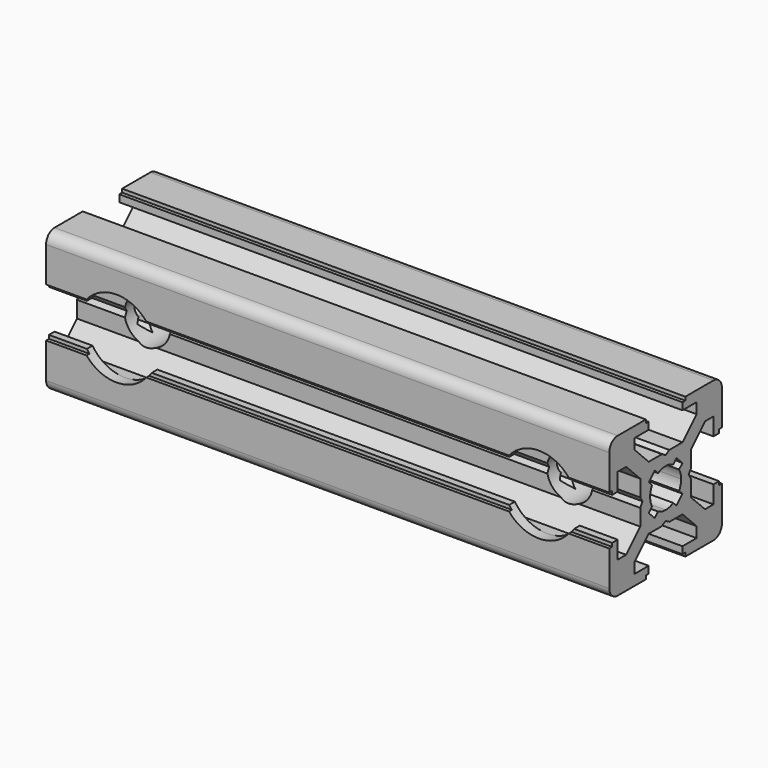
from build123d import *

# Parameters (mm, degrees)
PAD_DEPTH       = 80
SKETCH001_R     = 3.25
POCKET_DEPTH    = 21
SKETCH002_R     = 5.5
POCKET001_DEPTH = 2


with BuildPart() as part:
    # Sketch → Pad (new body)
    with BuildSketch(Plane.YZ):
        with BuildLine():
            Line((0, 4.1), (0.65, 4.5))
            Line((0.65, 4.5), (3, 4.5))
            Line((3, 4.5), (5.5, 7))
            Line((5.5, 7), (5.5, 8.5))
            Line((5.5, 8.5), (3, 8.5))
            Line((3, 8.5), (3, 9.5))
            Line((3, 9.5), (3.5, 9.5))
            Line((3.5, 9.5), (3.5, 10))
            Line((3.5, 10), (8.5, 10))
            ThreePointArc((10, 8.5), (9.56066, 9.56066), (8.5, 10))
            Line((10, 8.5), (10, 3.5))
            Line((10, 3.5), (9.5, 3.5))
            Line((9.5, 3.5), (9.5, 3))
            Line((9.5, 3), (8.5, 3))
            Line((8.5, 3), (8.5, 5.5))
            Line((8.5, 5.5), (7, 5.5))
            Line((7, 5.5), (4.5, 3))
            Line((4.5, 3), (4.5, 0.65))
            Line((4.5, 0.65), (4.1, 0))
            Line((4.5, -0.65), (4.1, 0))
            Line((4.5, -3), (4.5, -0.65))
            Line((7, -5.5), (4.5, -3))
            Line((8.5, -5.5), (7, -5.5))
            Line((8.5, -3), (8.5, -5.5))
            Line((9.5, -3), (8.5, -3))
            Line((9.5, -3.5), (9.5, -3))
            Line((10, -3.5), (9.5, -3.5))
            Line((10, -8.5), (10, -3.5))
            ThreePointArc((8.5, -10), (9.56066, -9.56066), (10, -8.5))
            Line((3.5, -10), (8.5, -10))
            Line((3.5, -9.5), (3.5, -10))
            Line((3, -9.5), (3.5, -9.5))
            Line((3, -8.5), (3, -9.5))
            Line((5.5, -8.5), (3, -8.5))
            Line((5.5, -7), (5.5, -8.5))
            Line((3, -4.5), (5.5, -7))
            Line((0.65, -4.5), (3, -4.5))
            Line((0, -4.1), (0.65, -4.5))
            Line((0, -4.1), (-0.65, -4.5))
            Line((-0.65, -4.5), (-3, -4.5))
            Line((-3, -4.5), (-5.5, -7))
            Line((-5.5, -7), (-5.5, -8.5))
            Line((-5.5, -8.5), (-3, -8.5))
            Line((-3, -8.5), (-3, -9.5))
            Line((-3, -9.5), (-3.5, -9.5))
            Line((-3.5, -9.5), (-3.5, -10))
            Line((-3.5, -10), (-8.5, -10))
            ThreePointArc((-10, -8.5), (-9.56066, -9.56066), (-8.5, -10))
            Line((-10, -8.5), (-10, -3.5))
            Line((-10, -3.5), (-9.5, -3.5))
            Line((-9.5, -3.5), (-9.5, -3))
            Line((-9.5, -3), (-8.5, -3))
            Line((-8.5, -3), (-8.5, -5.5))
            Line((-8.5, -5.5), (-7, -5.5))
            Line((-7, -5.5), (-4.5, -3))
            Line((-4.5, -3), (-4.5, -0.65))
            Line((-4.5, -0.65), (-4.1, 0))
            Line((-4.5, 0.65), (-4.1, 0))
            Line((-4.5, 3), (-4.5, 0.65))
            Line((-7, 5.5), (-4.5, 3))
            Line((-8.5, 5.5), (-7, 5.5))
            Line((-8.5, 3), (-8.5, 5.5))
            Line((-9.5, 3), (-8.5, 3))
            Line((-9.5, 3.5), (-9.5, 3))
            Line((-10, 3.5), (-9.5, 3.5))
            Line((-10, 8.5), (-10, 3.5))
            ThreePointArc((-8.5, 10), (-9.56066, 9.56066), (-10, 8.5))
            Line((-3.5, 10), (-8.5, 10))
            Line((-3.5, 9.5), (-3.5, 10))
            Line((-3, 9.5), (-3.5, 9.5))
            Line((-3, 8.5), (-3, 9.5))
            Line((-5.5, 8.5), (-3, 8.5))
            Line((-5.5, 7), (-5.5, 8.5))
            Line((-3, 4.5), (-5.5, 7))
            Line((-0.65, 4.5), (-3, 4.5))
            Line((0, 4.1), (-0.65, 4.5))
        make_face()
        with BuildLine():
            Line((1.340499, 2.401159), (1.923239, 2.983899))
            Line((1.923239, 2.983899), (2.983899, 1.923239))
            Line((2.983899, 1.923239), (2.401159, 1.340499))
            ThreePointArc((2.75, 0), (2.661361, 0.692573), (2.401159, 1.340499))
            ThreePointArc((2.401164, -1.34049), (2.661362, -0.692568), (2.75, 0))
            Line((2.983904, -1.92323), (2.401164, -1.34049))
            Line((1.923247, -2.983894), (2.983904, -1.92323))
            Line((1.340507, -2.401154), (1.923247, -2.983894))
            ThreePointArc((0, -2.75), (0.692577, -2.66136), (1.340507, -2.401154))
            ThreePointArc((-1.340507, -2.401154), (-0.692577, -2.66136), (0, -2.75))
            Line((-1.340507, -2.401154), (-1.923247, -2.983894))
            Line((-1.923247, -2.983894), (-2.983904, -1.92323))
            Line((-2.983904, -1.92323), (-2.401164, -1.34049))
            ThreePointArc((-2.75, 0), (-2.661362, -0.692568), (-2.401164, -1.34049))
            ThreePointArc((-2.401159, 1.340499), (-2.661361, 0.692572), (-2.75, 0))
            Line((-2.983899, 1.923239), (-2.401159, 1.340499))
            Line((-1.923239, 2.983899), (-2.983899, 1.923239))
            Line((-1.340499, 2.401159), (-1.923239, 2.983899))
            ThreePointArc((0, 2.75), (-0.692573, 2.661361), (-1.340499, 2.401159))
            ThreePointArc((1.340499, 2.401159), (0.692573, 2.661361), (0, 2.75))
        make_face(mode=Mode.SUBTRACT)
    extrude(amount=PAD_DEPTH)

    # Sketch001 → Pocket (cut)
    with BuildSketch(Plane.XZ.offset(10)):
        with Locations((10, 0)):
            Circle(SKETCH001_R)
        with Locations((70, 0)):
            Circle(SKETCH001_R)
    extrude(amount=-POCKET_DEPTH, mode=Mode.SUBTRACT)

    # Sketch002 → Pocket001 (cut)
    with BuildSketch(Plane.XZ.offset(10)):
        with Locations((10, 0)):
            Circle(SKETCH002_R)
        with Locations((70, 0)):
            Circle(SKETCH002_R)
    extrude(amount=-POCKET001_DEPTH, mode=Mode.SUBTRACT)


solid = part.part
